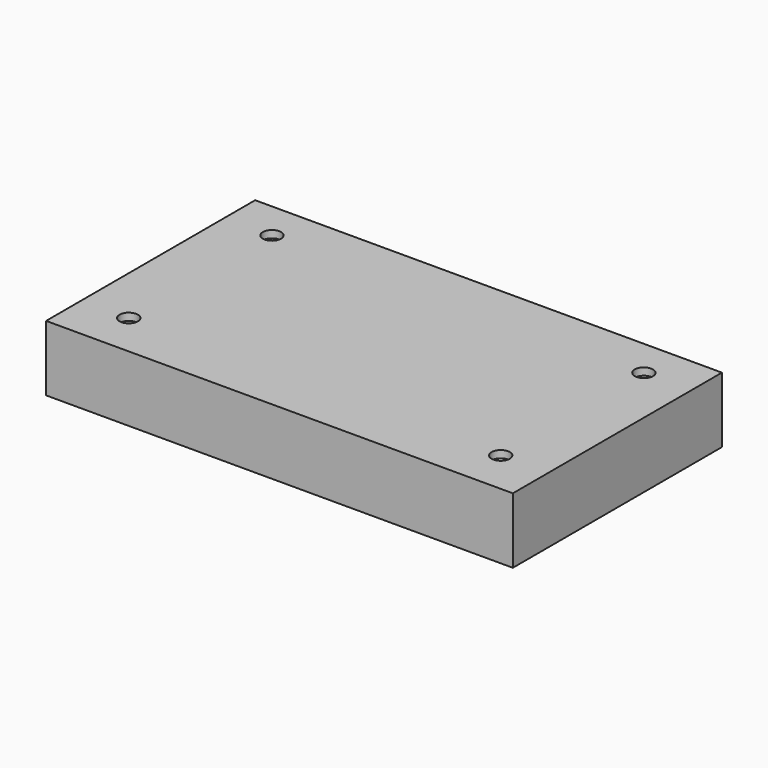
from build123d import *

# Parameters (mm, degrees)
F0_R     = 3.9751
F0_R_2   = 3.96875
F1_DEPTH = 3.175
F3_DEPTH = 25.4


with BuildPart() as f1:
    # F0 (on Top) → F1 (new body)
    with BuildSketch(Plane.XY):
        Polygon((-102.986208, 11.167409), (-102.986208, -102.693632), (100.37496, -102.693632), (100.366036, 11.175378), align=None)
        with Locations((-82.336008, -83.478532)):
            Circle(F0_R, mode=Mode.SUBTRACT)
        with Locations((79.715992, -83.478532)):
            Circle(F0_R, mode=Mode.SUBTRACT)
        with Locations((-82.336008, -5.500532)):
            Circle(F0_R_2, mode=Mode.SUBTRACT)
        with Locations((79.715992, -5.500532)):
            Circle(F0_R, mode=Mode.SUBTRACT)
    extrude(amount=F1_DEPTH)

    # F2 (on face) → F3 (join)
    with BuildSketch(Plane(origin=(0, 0, 0), x_dir=(1, 0, 0), z_dir=(0, 0, -1))):
        Polygon((100.37496, 102.693632), (-102.986208, 102.693632), (-102.986208, -11.167409), (100.366036, -11.175378), align=None)
        Polygon((-99.811208, -7.992534), (-99.811208, 99.518632), (97.199711, 99.518632), (97.191285, -8.000253), align=None, mode=Mode.SUBTRACT)
    extrude(amount=F3_DEPTH)


solid = f1.part
